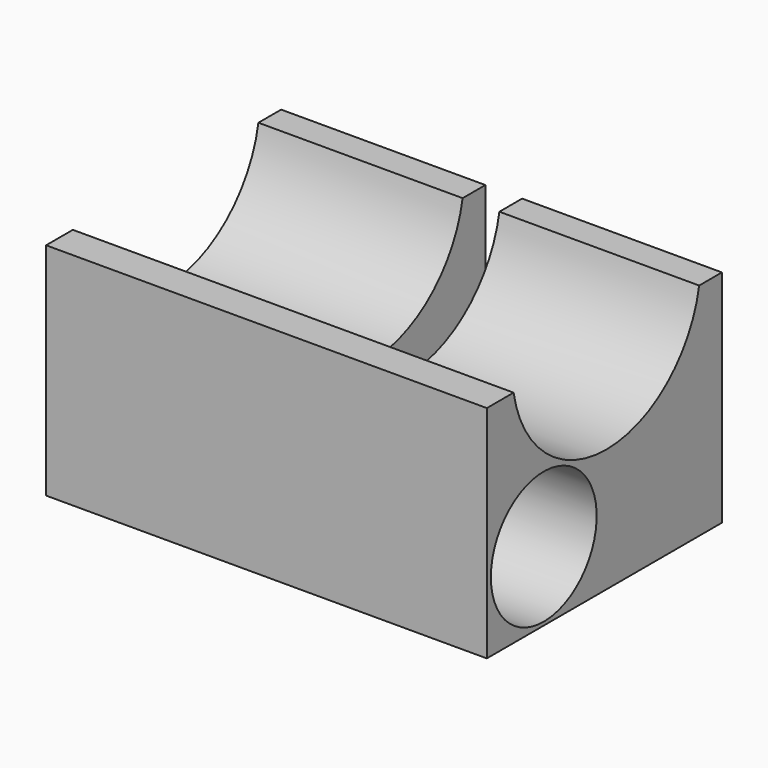
from build123d import *

# Parameters (mm, degrees)
F0_W     = 152.4
F0_H     = 101.6
F1_DEPTH = 76.2
F3_DEPTH = 152.654
F4_W     = 12.7030066214
F4_H     = 9.8352176327
F4_H_2   = 45.31371966
F5_DEPTH = 115.316
F6_R     = 22.86
F7_DEPTH = 193.04


with BuildPart() as f1:
    # F0 (on Top) → F1 (new body)
    with BuildSketch(Plane.XY):
        with Locations((34.5954637319, 4.3489372927)):
            Rectangle(F0_W, F0_H)
    extrude(amount=F1_DEPTH)

    # F2 (on face) → F3 (cut)
    with BuildSketch(Plane(origin=(-41.6045362681, 0, 0), x_dir=(0, -1, 0), z_dir=(-1, 0, 0))):
        with BuildLine():
            Line((34.8858758807, 76.2), (-45.31371966, 76.2))
            ThreePointArc((-45.31371966, 76.2), (-5.2139218897, 42.5794624331), (34.8858758807, 76.2))
        make_face()
    extrude(amount=-F3_DEPTH, mode=Mode.SUBTRACT)

    # F4 (on face) → F5 (cut)
    with BuildSketch(Plane.XY.offset(76.2)):
        with Locations((35.3598685469, 50.2313284764)):
            Rectangle(F4_W, F4_H)
        with Locations((35.3598685469, 22.65685983)):
            Rectangle(F4_W, F4_H_2)
    extrude(amount=-F5_DEPTH, mode=Mode.SUBTRACT)

    # F6 (on face) → F7 (cut)
    with BuildSketch(Plane(origin=(-41.6045362681, 0, 0), x_dir=(0, -1, 0), z_dir=(-1, 0, 0))):
        with Locations((21.8480825203, 24.0417348414)):
            Circle(F6_R)
    extrude(amount=-F7_DEPTH, mode=Mode.SUBTRACT)


solid = f1.part
